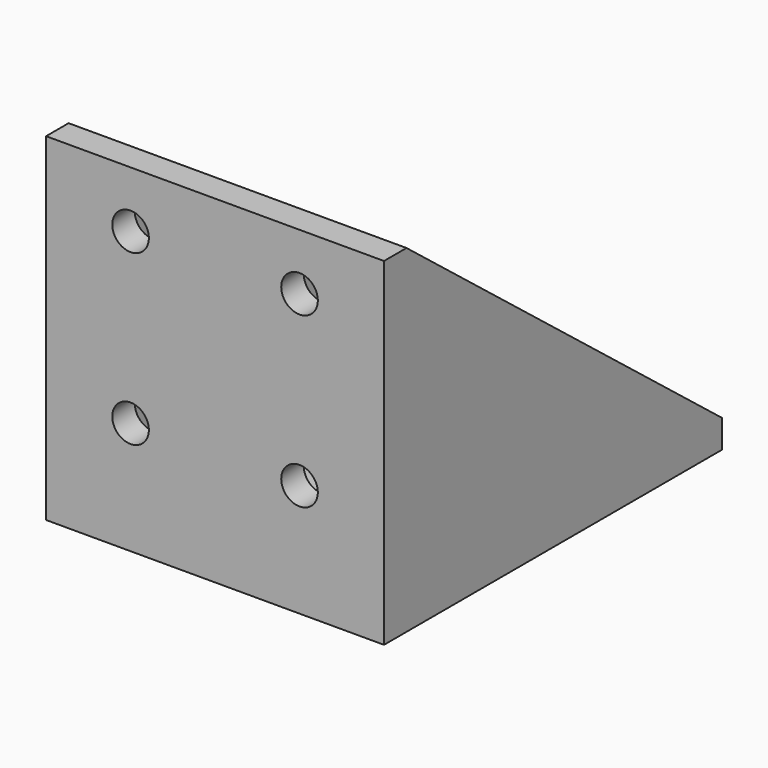
from build123d import *

# Parameters (mm, degrees)
F1_DEPTH  = 60
F3_DEPTH  = 5
F6_DEPTH  = 5
F7_R      = 4.25
F8_DEPTH  = 25
F9_R      = 3.25
F10_DEPTH = 25


with BuildPart() as f1:
    # F0 (on Right) → F1 (new body)
    with BuildSketch(Plane.YZ):
        Polygon((0, 60), (0, 0), (75, 0), (75, 5), (5, 5), (5, 60), align=None)
    extrude(amount=-F1_DEPTH)

    # F2 (on Right) → F3 (join)
    with BuildSketch(Plane.YZ):
        Polygon((75, 5), (5, 60), (5, 5), align=None)
    extrude(amount=-F3_DEPTH)

    # F5 (on offset) → F6 (join)
    with BuildSketch(Plane.YZ.offset(-60)):
        Polygon((75, 5), (5, 60), (5, 5), align=None)
    extrude(amount=F6_DEPTH)

    # F7 (on face) → F8 (cut)
    with BuildSketch(Plane.XY.offset(5)):
        with Locations((-15, 35)):
            Circle(F7_R)
        with Locations((-15, 65)):
            Circle(F7_R)
        with Locations((-45, 65)):
            Circle(F7_R)
        with Locations((-45, 35)):
            Circle(F7_R)
    extrude(amount=-F8_DEPTH, mode=Mode.SUBTRACT)

    # F9 (on face) → F10 (cut)
    with BuildSketch(Plane(origin=(0, 5, 0), x_dir=(-1, 0, 0), z_dir=(0, 1, 0))):
        with Locations((45, 20)):
            Circle(F9_R)
        with Locations((45, 50)):
            Circle(F9_R)
        with Locations((15, 50)):
            Circle(F9_R)
        with Locations((15, 20)):
            Circle(F9_R)
    extrude(amount=-F10_DEPTH, mode=Mode.SUBTRACT)


solid = f1.part
